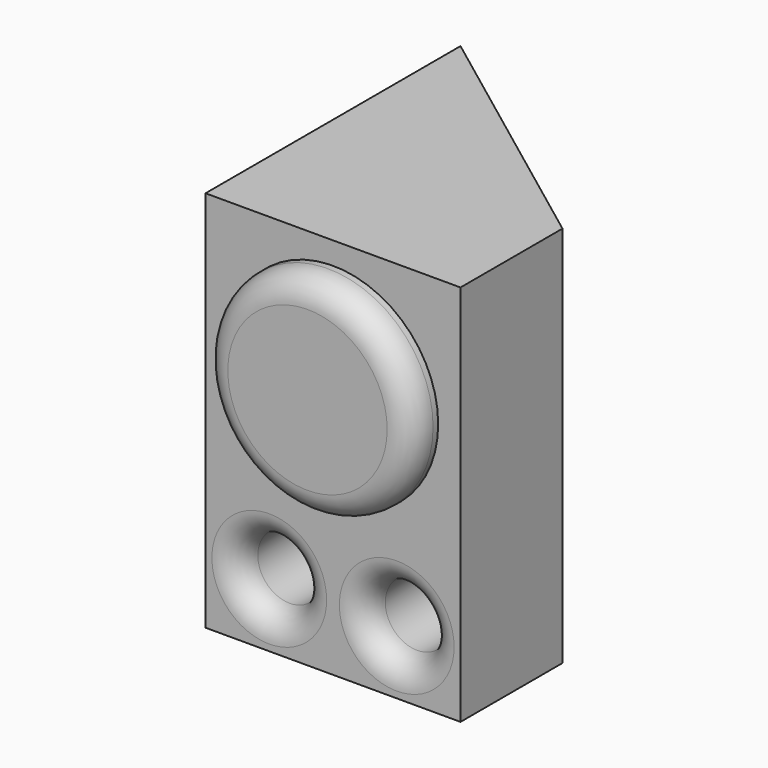
from build123d import *

# Parameters (mm, degrees)
F0_W     = 200
F0_H     = 300
F1_DEPTH = 250
F2_R     = 82.5
F3_DEPTH = 25
F5_DEPTH = 300.001
F6_R     = 25
F7_DEPTH = 100
F8_R     = 20


with BuildPart() as f1:
    # F0 (on Front) → F1 (new body)
    with BuildSketch(Plane.XZ):
        with Locations((100, 150)):
            Rectangle(F0_W, F0_H)
    extrude(amount=-F1_DEPTH)

    # F2 (on face) → F3 (join)
    with BuildSketch(Plane.XZ):
        with Locations((100, 200)):
            Circle(F2_R)
    extrude(amount=F3_DEPTH)

    # F4 (on face) → F5 (cut, through all)
    with BuildSketch(Plane.XY.offset(300)):
        Polygon((200, 250), (0, 250), (200, 100), align=None)
    extrude(amount=-F5_DEPTH, mode=Mode.SUBTRACT)

    # F6 (on face) → F7 (cut)
    with BuildSketch(Plane.XZ):
        with Locations((150, 50)):
            Circle(F6_R)
        with Locations((50, 50)):
            Circle(F6_R)
    extrude(amount=-F7_DEPTH, mode=Mode.SUBTRACT)

    # F8
    f8_edges = [f1.edges().sort_by_distance(p)[0] for p in [
        (25, 0, 50),
        (125, 0, 50),
        (17.5, -25, 200),
    ]]
    fillet(f8_edges, radius=F8_R)


solid = f1.part
